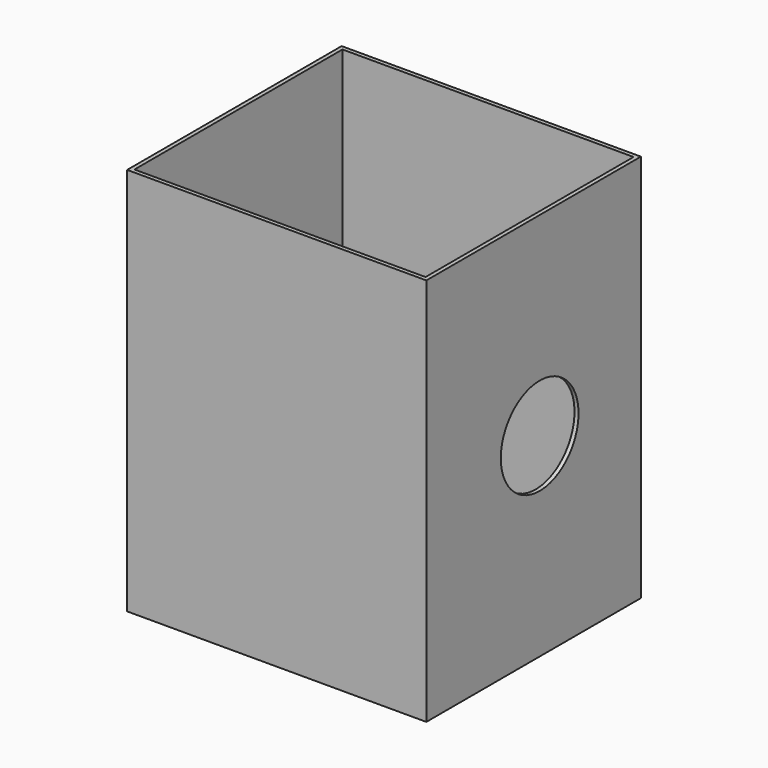
from build123d import *

# Parameters (mm, degrees)
F0_W     = 117.313064
F0_H     = 105.121065
F1_DEPTH = 152.4
F2_T     = -1.5875
F4_D     = 38.1


with BuildPart() as f1:
    # F0 (on Top) → F1 (new body)
    with BuildSketch(Plane.XY):
        with Locations((-9.687949, -2.982347)):
            Rectangle(F0_W, F0_H)
    extrude(amount=F1_DEPTH)

    # F2
    f2_openings = [f1.faces().sort_by_distance(p)[0] for p in [
        (-9.687949, -2.982346, 152.4),
    ]]
    offset(amount=F2_T, openings=f2_openings)

    # F4 (through all)
    with Locations(Plane.YZ.offset(48.968583)):
        with Locations((0, 76.2)):
            Hole(F4_D / 2)


solid = f1.part
